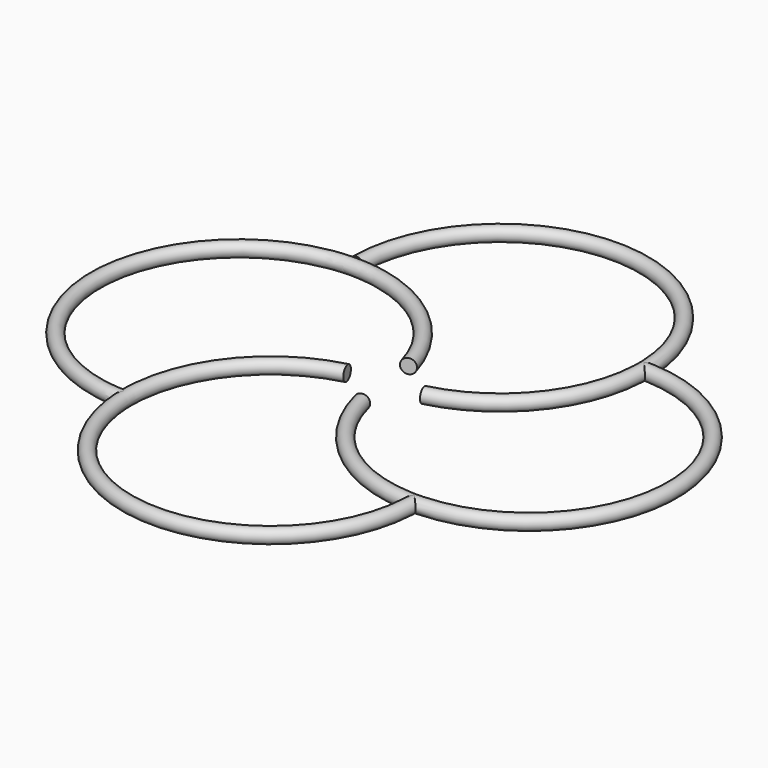
from build123d import *

# Parameters (mm, degrees)
F2_R = 2.5
F1_R = 2.5


with BuildPart() as f3:
    # F3: sweep along a path in F0
    with BuildLine(Plane.XY) as f3_path:
        ThreePointArc((12.157739, 1.500625), (30.758032, 89.42009), (-50, 50))
    # F2 (on Right) → F3 (sweep)
    with BuildSketch(Plane.YZ):
        with Locations((100, 0)):
            Circle(F2_R)
    sweep(path=f3_path.line)

    # F4: sweep along a path in F0
    with BuildLine(Plane.XY) as f4_path:
        ThreePointArc((1.500625, -12.157739), (89.42009, -30.758032), (50, 50))
    # F1 (on Front) → F4 (sweep)
    with BuildSketch(Plane.XZ):
        with Locations((100, 0)):
            Circle(F1_R)
    sweep(path=f4_path.line)

    # F5: sweep along a path in F0
    with BuildLine(Plane.XY) as f5_path:
        ThreePointArc((-12.157739, -1.500625), (-30.758032, -89.42009), (50, -50))
    # F2 (on Right) → F5 (sweep)
    with BuildSketch(Plane.YZ):
        with Locations((-100, 0)):
            Circle(F2_R)
    sweep(path=f5_path.line)

    # F6: sweep along a path in F0
    with BuildLine(Plane.XY) as f6_path:
        ThreePointArc((-1.686096, 12.133408), (-89.620641, 28.726975), (-49.977516, -51.499289))
    # F1 (on Front) → F6 (sweep)
    with BuildSketch(Plane.XZ):
        with Locations((-99.775553, 0)):
            Circle(F1_R)
    sweep(path=f6_path.line)


solid = f3.part
